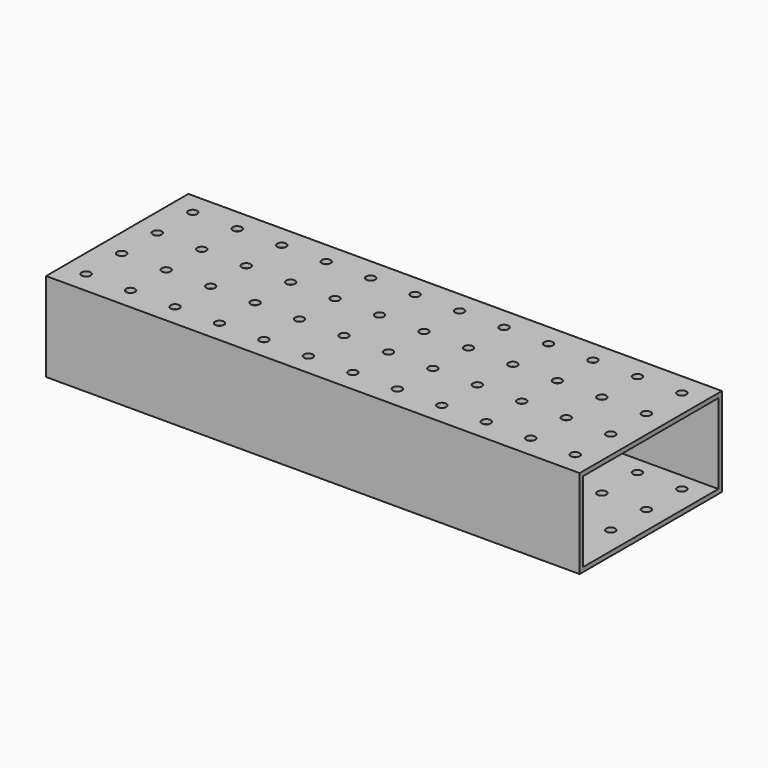
from build123d import *

# Parameters (mm, degrees)
F0_W     = 304.8
F0_H     = 101.6
F1_DEPTH = 50.8
F2_W     = 96.52
F2_H     = 45.72
F3_DEPTH = 304.801
F5_D     = 5.1054


with BuildPart() as f1:
    # F0 (on Top) → F1 (new body)
    with BuildSketch(Plane.XY):
        with Locations((5.528525, -20.282418)):
            Rectangle(F0_W, F0_H)
    extrude(amount=F1_DEPTH)

    # F2 (on face) → F3 (cut, through all)
    with BuildSketch(Plane(origin=(-146.871475, 0, 0), x_dir=(0, -1, 0), z_dir=(-1, 0, 0))):
        with Locations((20.282418, 25.4)):
            Rectangle(F2_W, F2_H)
    extrude(amount=-F3_DEPTH, mode=Mode.SUBTRACT)

    # F5 (through all)
    with Locations(Plane.XY.offset(50.8)):
        with Locations((145.228525, -58.382418), (43.628525, -58.382418), (-57.971475, -58.382418), (94.428525, -32.982418), (-7.171475, -32.982418), (119.828525, -7.582418), (69.028525, 17.817582), (18.228525, -7.582418), (-32.571475, 17.817582), (69.028525, -58.382418), (-32.571475, -58.382418), (145.228525, 17.817582), (43.628525, 17.817582), (-57.971475, 17.817582), (94.428525, -58.382418), (-7.171475, -58.382418), (119.828525, -32.982418), (69.028525, -7.582418), (18.228525, -32.982418), (-32.571475, -7.582418), (145.228525, -7.582418), (43.628525, -7.582418), (-57.971475, -7.582418), (119.828525, 17.817582), (-83.371475, -7.582418), (18.228525, 17.817582), (-83.371475, -32.982418), (-83.371475, -58.382418), (94.428525, 17.817582), (-7.171475, 17.817582), (-134.171475, 17.817582), (119.828525, -58.382418), (18.228525, -58.382418), (69.028525, -32.982418), (-32.571475, -32.982418), (-134.171475, -7.582418), (-134.171475, -32.982418), (145.228525, -32.982418), (43.628525, -32.982418), (-134.171475, -58.382418), (-57.971475, -32.982418), (-108.771475, 17.817582), (-108.771475, -7.582418), (-108.771475, -32.982418), (-108.771475, -58.382418), (-83.371475, 17.817582), (94.428525, -7.582418), (-7.171475, -7.582418)):
            Hole(F5_D / 2)


solid = f1.part
